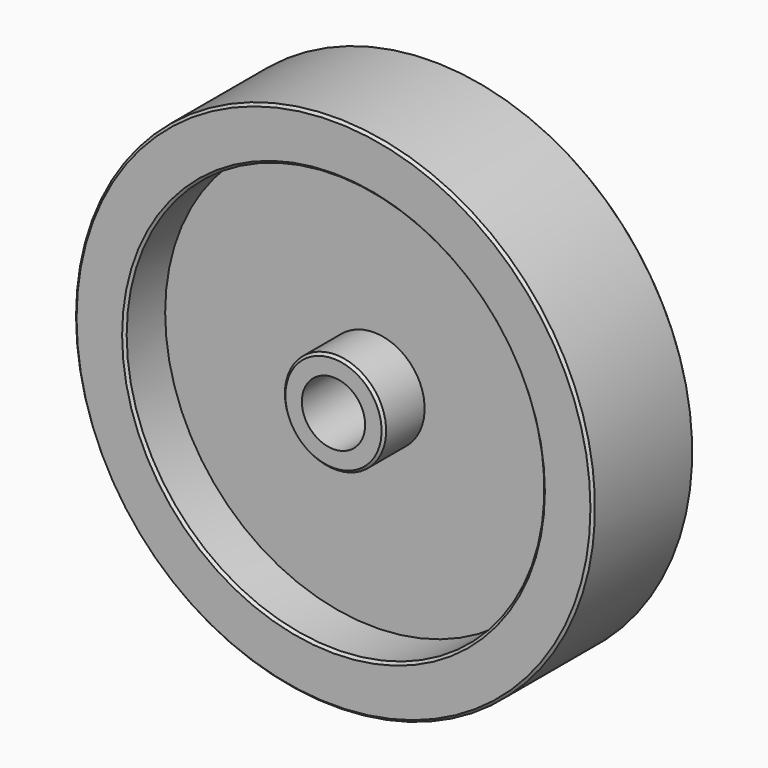
from build123d import *

# Parameters (mm, degrees)
CHAMFER_SIZE = 1


with BuildPart() as part:
    # Sketch → Revolution (revolve)
    with BuildSketch(Plane.XY):
        Polygon((-102.5, 0), (-102.5, 25), (-82.5, 25), (-82.5, 5), (-20, 5), (-20, 25), (-12.5, 25), (-12.5, 0), (-12.5, -25), (-20, -25), (-20, -5), (-82.5, -5), (-82.5, -25), (-102.5, -25), align=None)
    revolve(axis=Axis((0, 0, 0), (0, 1, 0)))

    # Chamfer
    chamfer_edges = [part.edges().sort_by_distance(p)[0] for p in [
        (82.5, 25, 0),
        (102.5, -25, 0),
        (102.5, 25, 0),
        (20, 25, 0),
        (82.5, -25, 0),
        (20, -25, 0),
    ]]
    chamfer(chamfer_edges, length=CHAMFER_SIZE)


solid = part.part
